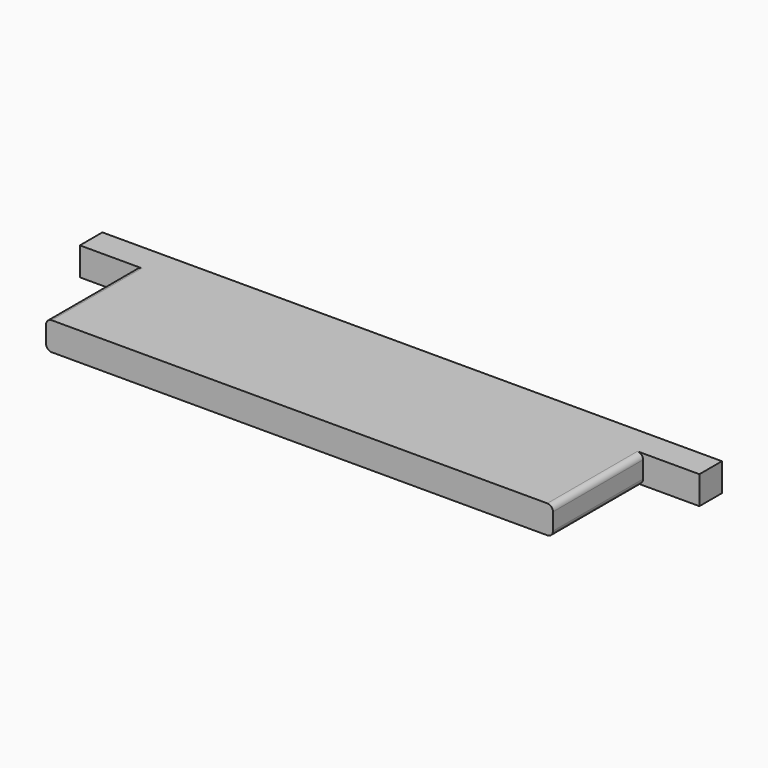
from build123d import *

# Parameters (mm, degrees)
PAD_DEPTH = 5
FILLET_R  = 1


with BuildPart() as part:
    # Sketch → Pad (new body)
    with BuildSketch(Plane.XY):
        Polygon((-45, -10), (45, -10), (45, 10), (55, 10), (55, 15), (-55, 15), (-55, 10), (-45, 10), align=None)
    extrude(amount=PAD_DEPTH)

    # Fillet
    fillet_edges = [part.edges().sort_by_distance(p)[0] for p in [
        (-45, 0, 5),
        (-45, 0, 0),
        (45, 0, 5),
        (45, 0, 0),
    ]]
    fillet(fillet_edges, radius=FILLET_R)


solid = part.part
